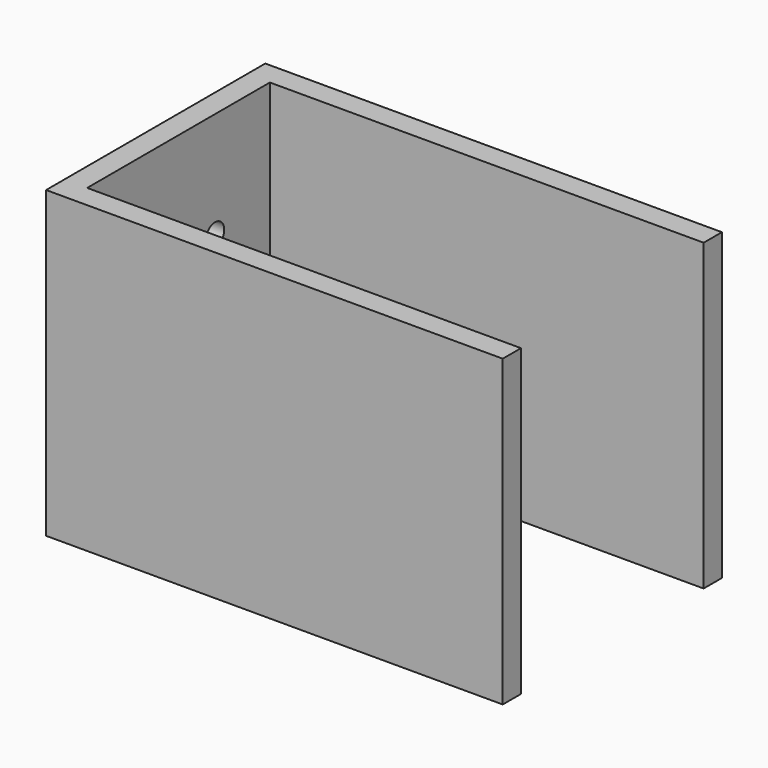
from build123d import *

# Parameters (mm, degrees)
F1_DEPTH = 40
F2_R     = 1.5
F3_DEPTH = 4


with BuildPart() as f1:
    # F0 (on Top) → F1 (new body)
    with BuildSketch(Plane.XY):
        Polygon((-39.052059, 13.479765), (-39.052059, -22.520235), (20.947941, -22.520235), (20.947941, -19.520235), (-36.052059, -19.520235), (-36.052059, 10.479765), (20.947941, 10.479765), (20.947941, 13.479765), align=None)
    extrude(amount=F1_DEPTH)

    # F2 (on face) → F3 (cut)
    with BuildSketch(Plane(origin=(-39.052059, 0, 0), x_dir=(0, -1, 0), z_dir=(-1, 0, 0))):
        with Locations((-1.479765, 26)):
            Circle(F2_R)
        with Locations((10.520235, 26)):
            Circle(F2_R)
        with Locations((10.520235, 14)):
            Circle(F2_R)
        with Locations((-1.479765, 14)):
            Circle(F2_R)
    extrude(amount=-F3_DEPTH, mode=Mode.SUBTRACT)


solid = f1.part
